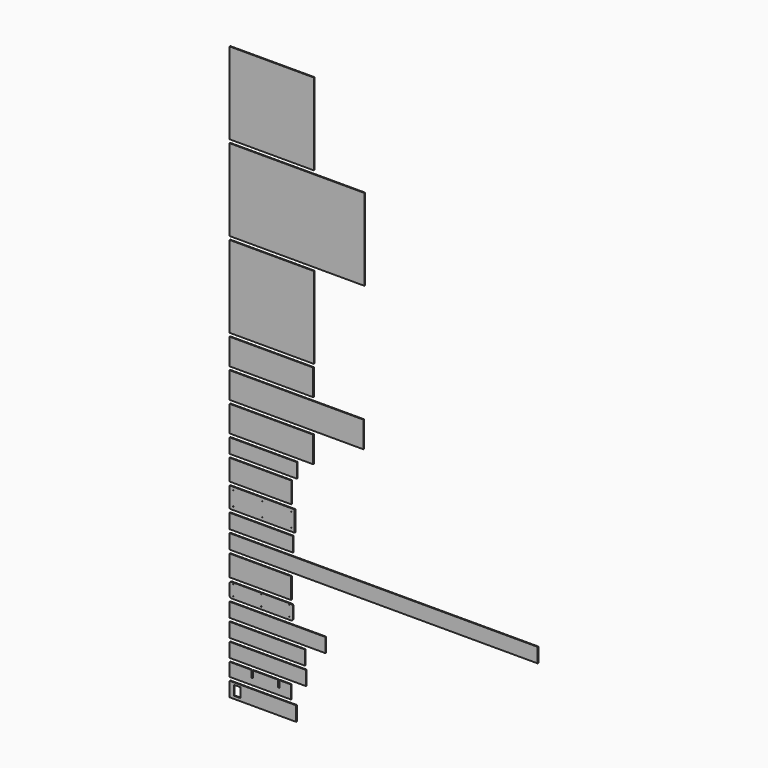
from build123d import *

# Parameters (mm, degrees)
F0_W     = 623.8875
F0_H     = 606.425
F0_W_2   = 998.5375
F0_W_3   = 619.125
F0_H_2   = 193.675
F0_W_4   = 992.1875
F0_W_5   = 497.68125
F0_H_3   = 107.95
F0_W_6   = 457.2
F0_H_4   = 155.575
F0_R     = 2.159
F0_W_7   = 468.3125
F0_W_8   = 2284.4125
F0_W_9   = 455.6125
F0_W_10  = 709.6125
F0_H_5   = 105.56875
F0_W_11  = 557.2125
F0_W_12  = 565.15
F0_W_13  = 493.7125
F0_W_14  = 49.2125
F0_H_6   = 71.4375
F1_DEPTH = 6.35


with BuildPart() as f1:
    # F0 (on Front) → F1 (new body)
    with BuildSketch(Plane.XZ):
        with Locations((311.94375, -328.6125)):
            Rectangle(F0_W, F0_H)
        with Locations((499.26875, -960.4375)):
            Rectangle(F0_W_2, F0_H)
        with Locations((311.94375, -1592.2625)):
            Rectangle(F0_W, F0_H)
        with Locations((309.5625, -2017.7125)):
            Rectangle(F0_W_3, F0_H_2)
        with Locations((496.09375, -2236.7875)):
            Rectangle(F0_W_4, F0_H_2)
        with Locations((309.5625, -2455.8625)):
            Rectangle(F0_W_3, F0_H_2)
        with Locations((248.840625, -2632.075)):
            Rectangle(F0_W_5, F0_H_3)
        with Locations((228.6, -2789.2375)):
            Rectangle(F0_W_6, F0_H_4)
        with BuildLine():
            Line((479.425, -2892.425), (3.175, -2892.425))
            ThreePointArc((3.175, -2892.425), (0.929936, -2893.354936), (0, -2895.6))
            Line((0, -2895.6), (0, -3041.65))
            ThreePointArc((0, -3041.65), (0.929936, -3043.895064), (3.175, -3044.825))
            Line((3.175, -3044.825), (479.425, -3044.825))
            ThreePointArc((479.425, -3044.825), (481.670064, -3043.895064), (482.6, -3041.65))
            Line((482.6, -3041.65), (482.6, -2895.6))
            ThreePointArc((482.6, -2895.6), (481.670064, -2893.354936), (479.425, -2892.425))
        make_face()
        with Locations((25.4, -3021.0125)):
            Circle(F0_R, mode=Mode.SUBTRACT)
        with Locations((241.3, -3021.0125)):
            Circle(F0_R, mode=Mode.SUBTRACT)
        with Locations((25.4, -2916.2375)):
            Circle(F0_R, mode=Mode.SUBTRACT)
        with Locations((241.3, -2916.2375)):
            Circle(F0_R, mode=Mode.SUBTRACT)
        with Locations((457.2, -3021.0125)):
            Circle(F0_R, mode=Mode.SUBTRACT)
        with Locations((457.2, -2916.2375)):
            Circle(F0_R, mode=Mode.SUBTRACT)
        with Locations((234.15625, -3124.2)):
            Rectangle(F0_W_7, F0_H_3)
        with Locations((1142.20625, -3257.55)):
            Rectangle(F0_W_8, F0_H_3)
        with Locations((227.80625, -3414.7125)):
            Rectangle(F0_W_9, F0_H_4)
        with BuildLine():
            Line((455.6125, -3517.9), (12.7, -3517.9))
            ThreePointArc((12.7, -3517.9), (3.719744, -3521.619744), (0, -3530.6))
            Line((0, -3530.6), (0, -3613.15))
            ThreePointArc((0, -3613.15), (3.719744, -3622.130256), (12.7, -3625.85))
            Line((12.7, -3625.85), (455.6125, -3625.85))
            ThreePointArc((455.6125, -3625.85), (464.592756, -3622.130256), (468.3125, -3613.15))
            Line((468.3125, -3613.15), (468.3125, -3530.6))
            ThreePointArc((468.3125, -3530.6), (464.592756, -3521.619744), (455.6125, -3517.9))
        make_face()
        with Locations((25.4, -3606.8)):
            Circle(F0_R, mode=Mode.SUBTRACT)
        with Locations((25.4, -3527.425)):
            Circle(F0_R, mode=Mode.SUBTRACT)
        with Locations((234.15625, -3606.8)):
            Circle(F0_R, mode=Mode.SUBTRACT)
        with Locations((234.15625, -3527.425)):
            Circle(F0_R, mode=Mode.SUBTRACT)
        with Locations((442.9125, -3606.8)):
            Circle(F0_R, mode=Mode.SUBTRACT)
        with Locations((442.9125, -3527.425)):
            Circle(F0_R, mode=Mode.SUBTRACT)
        with Locations((354.80625, -3704.034375)):
            Rectangle(F0_W_10, F0_H_5)
        with Locations((278.60625, -3835.003125)):
            Rectangle(F0_W_11, F0_H_5)
        with Locations((282.575, -3965.971875)):
            Rectangle(F0_W_12, F0_H_5)
        Polygon((160.3375, -4044.15625), (0, -4044.15625), (0, -4142.58125), (454.025, -4142.58125), (454.025, -4044.15625), (369.09375, -4044.15625), (369.09375, -4094.95625), (357.98125, -4094.95625), (357.98125, -4044.15625), (171.45, -4044.15625), (171.45, -4094.95625), (160.3375, -4094.95625), align=None)
        with Locations((246.85625, -4221.95625)):
            Rectangle(F0_W_13, F0_H_3)
        with Locations((55.5625, -4219.575)):
            Rectangle(F0_W_14, F0_H_6, mode=Mode.SUBTRACT)
    extrude(amount=F1_DEPTH)


solid = f1.part
